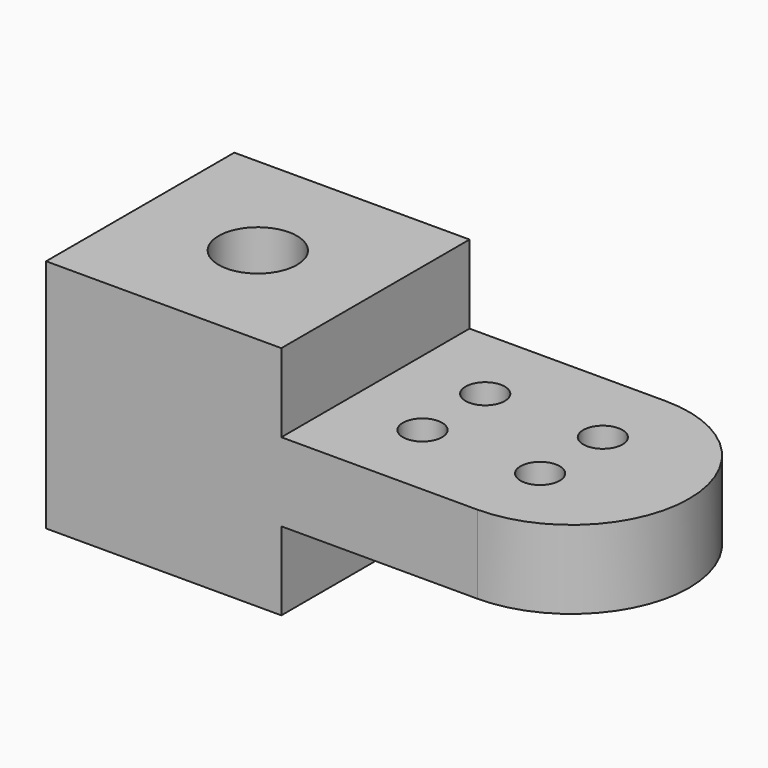
from build123d import *

# Parameters (mm, degrees)
F0_W     = 38.1
F0_H     = 38.1
F0_R     = 6.35
F0_R_2   = 3.175
F1_DEPTH = 38.1
F2_DEPTH = 12.7
F3_R     = 3.175
F4_DEPTH = 12.7


with BuildPart() as f1:
    # F0 (on Top) → F1 (new body)
    with BuildSketch(Plane.XY):
        with Locations((19.05, 19.05)):
            Rectangle(F0_W, F0_H)
        with Locations((19.05, 19.05)):
            Circle(F0_R, mode=Mode.SUBTRACT)
        with BuildLine():
            Line((38.1, 38.1), (38.1, 0))
            Line((38.1, 0), (69.85, 0))
            ThreePointArc((69.85, 0), (88.9, 19.05), (69.85, 38.1))
            Line((69.85, 38.1), (38.1, 38.1))
        make_face()
        with Locations((50.8, 12.7)):
            Circle(F0_R_2, mode=Mode.SUBTRACT)
        with Locations((69.85, 12.7)):
            Circle(F0_R_2, mode=Mode.SUBTRACT)
        with Locations((50.8, 25.4)):
            Circle(F0_R_2, mode=Mode.SUBTRACT)
        with Locations((69.85, 25.4)):
            Circle(F0_R_2, mode=Mode.SUBTRACT)
    extrude(amount=F1_DEPTH)

    # F0 (on Top) → F2 (cut)
    with BuildSketch(Plane.XY):
        with BuildLine():
            Line((38.1, 38.1), (38.1, 0))
            Line((38.1, 0), (69.85, 0))
            ThreePointArc((69.85, 0), (88.9, 19.05), (69.85, 38.1))
            Line((69.85, 38.1), (38.1, 38.1))
        make_face()
        with Locations((50.8, 12.7)):
            Circle(F0_R_2, mode=Mode.SUBTRACT)
        with Locations((69.85, 12.7)):
            Circle(F0_R_2, mode=Mode.SUBTRACT)
        with Locations((50.8, 25.4)):
            Circle(F0_R_2, mode=Mode.SUBTRACT)
        with Locations((69.85, 25.4)):
            Circle(F0_R_2, mode=Mode.SUBTRACT)
    extrude(amount=F2_DEPTH, mode=Mode.SUBTRACT)

    # F3 (on face) → F4 (cut)
    with BuildSketch(Plane.XY.offset(38.1)):
        with BuildLine():
            Line((69.85, 38.1), (38.1, 38.1))
            Line((38.1, 38.1), (38.1, 0))
            Line((38.1, 0), (69.85, 0))
            ThreePointArc((69.85, 0), (88.9, 19.05), (69.85, 38.1))
        make_face()
        with Locations((50.8, 12.7)):
            Circle(F3_R, mode=Mode.SUBTRACT)
        with Locations((69.85, 12.7)):
            Circle(F3_R, mode=Mode.SUBTRACT)
        with Locations((50.8, 25.4)):
            Circle(F3_R, mode=Mode.SUBTRACT)
        with Locations((69.85, 25.4)):
            Circle(F3_R, mode=Mode.SUBTRACT)
    extrude(amount=-F4_DEPTH, mode=Mode.SUBTRACT)


with BuildPart() as f5_1:
    # F5: copy of F1
    add(f1.part)


solid = Compound([f1.part, f5_1.part])
